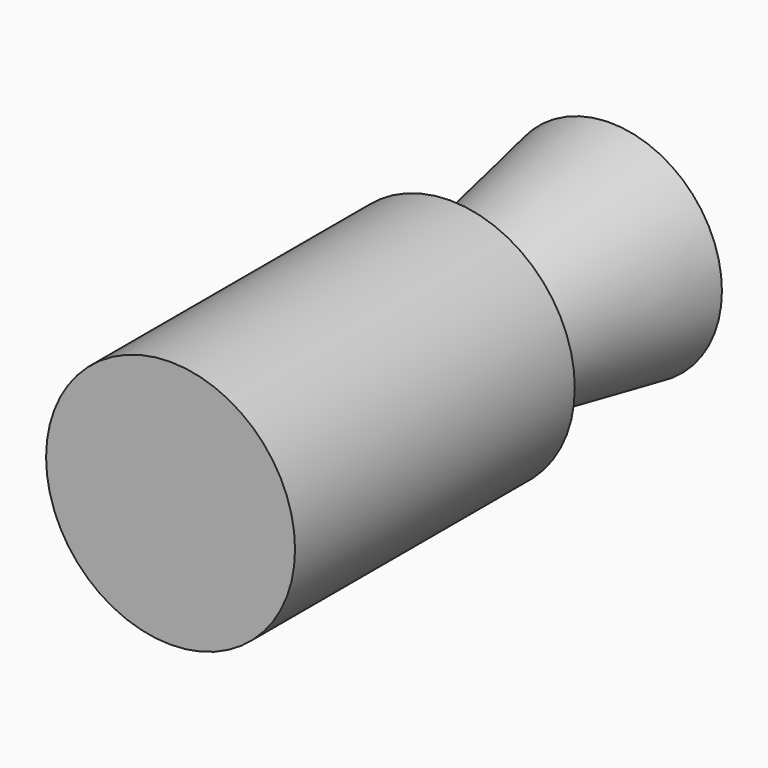
from build123d import *

# Parameters (mm, degrees)
F0_R     = 42.8562504329
F1_DEPTH = 120.396
F2_R     = 26.3086568954
F3_DEPTH = 68.834
F3_TAPER = -10


with BuildPart() as f1:
    # F0 (on Front) → F1 (new body)
    with BuildSketch(Plane.XZ):
        Circle(F0_R)
    extrude(amount=F1_DEPTH)

    # F2 (on Front) → F3 (join)
    with BuildSketch(Plane.XZ):
        Circle(F2_R)
    extrude(amount=-F3_DEPTH, taper=F3_TAPER)


solid = f1.part
